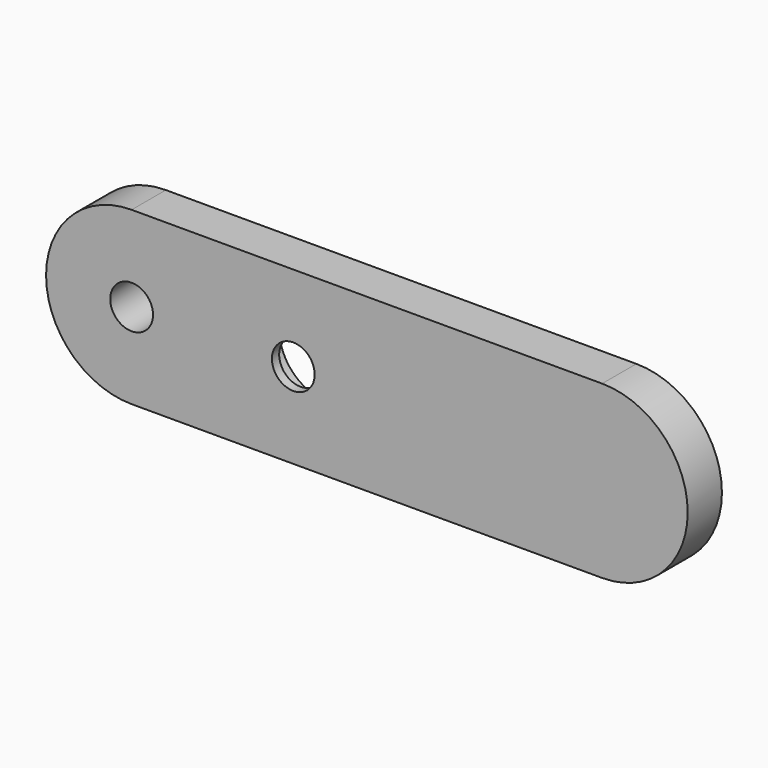
from build123d import *

# Parameters (mm, degrees)
F1_DEPTH = 6.35
F2_R     = 3.175
F3_DEPTH = 6.35
F5_DEPTH = 5


with BuildPart() as f1:
    # F0 (on Front) → F1 (new body)
    with BuildSketch(Plane.XZ):
        with BuildLine():
            Line((69.85, 12.7), (0, 12.7))
            ThreePointArc((0, 12.7), (-12.7, 0), (0, -12.7))
            Line((0, -12.7), (69.85, -12.7))
            ThreePointArc((69.85, -12.7), (82.55, 0), (69.85, 12.7))
        make_face()
    extrude(amount=F1_DEPTH)

    # F2 (on face) → F3 (cut, through all)
    with BuildSketch(Plane.XZ.offset(6.35)):
        Circle(F2_R)
        with Locations((24, 0)):
            Circle(F2_R)
    extrude(amount=-F3_DEPTH, mode=Mode.SUBTRACT)

    # F4 (on face) → F5 (cut)
    with BuildSketch(Plane(origin=(0, 0, 0), x_dir=(-1, 0, 0), z_dir=(0, 1, 0))):
        with BuildLine():
            Line((-23.55792, 7.161368), (-69.23386, 9.981001))
            ThreePointArc((-69.23386, 9.981001), (-79.85, 0), (-69.23386, -9.981001))
            Line((-69.23386, -9.981001), (-23.55792, -7.161368))
            ThreePointArc((-23.55792, -7.161368), (-16.825, 0), (-23.55792, 7.161368))
        make_face()
    extrude(amount=-F5_DEPTH, mode=Mode.SUBTRACT)


solid = f1.part
